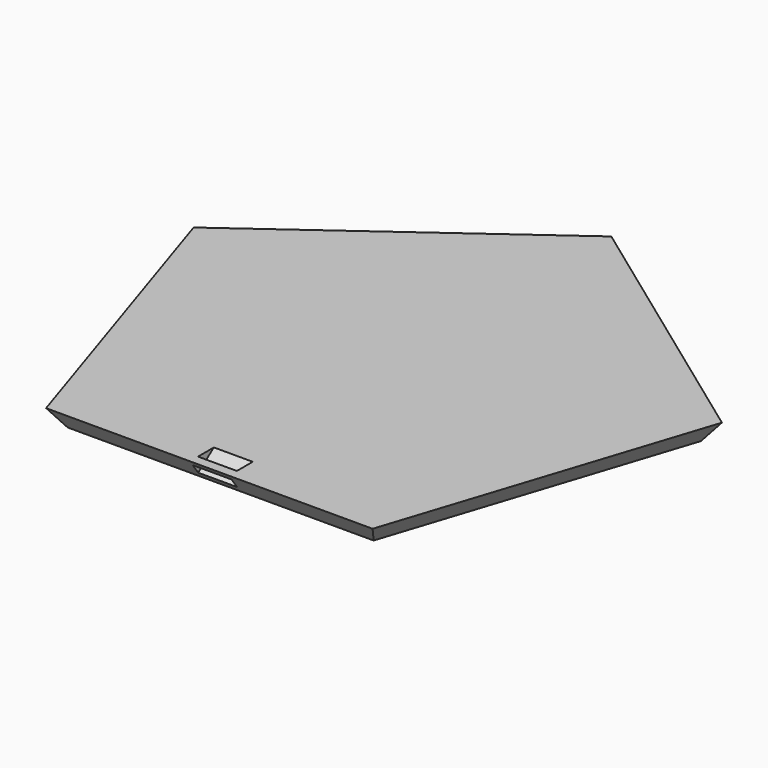
from build123d import *

# Parameters (mm, degrees)
F1_DEPTH = 1.27
F1_TAPER = -36
F2_W     = 2.54
F2_H     = 0.762
F3_DEPTH = 25.4


with BuildPart() as f1:
    # F0 (on Top) → F1 (new body)
    with BuildSketch(Plane.XY):
        Polygon((9.99998, -13.7637916771), (16.1803075268, 5.2573006066), (0, 17.012982141), (-16.1803075268, 5.2573006066), (-9.99998, -13.7637916771), align=None)
    extrude(amount=F1_DEPTH, taper=F1_TAPER)

    # F2 (on face) → F3 (cut)
    with BuildSketch(Plane(origin=(0, -9.0085186062, -6.5450718817), x_dir=(1, 0, 0), z_dir=(0, -0.8090169944, -0.5877852523))):
        with Locations((0, 8.89)):
            Rectangle(F2_W, F2_H)
    extrude(amount=-F3_DEPTH, mode=Mode.SUBTRACT)


solid = f1.part
